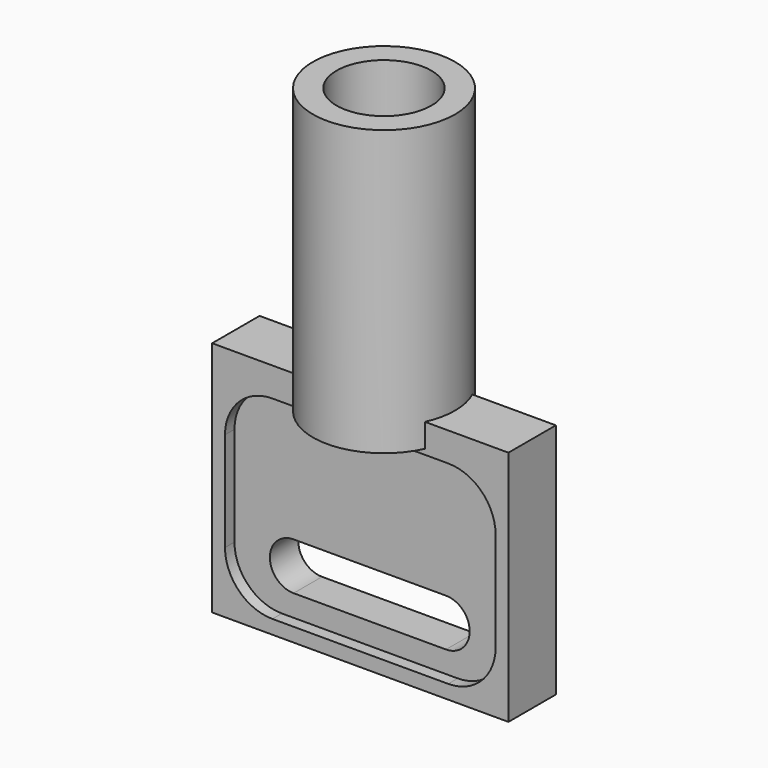
from build123d import *

# Parameters (mm, degrees)
SKETCH006_W     = 25
SKETCH006_H     = 5
PAD_DEPTH       = 20
SKETCH_R        = 6
PAD001_DEPTH    = 24
SKETCH001_R     = 4
POCKET001_DEPTH = 22
POCKET002_DEPTH = 5
POCKET003_DEPTH = 1


with BuildPart() as part:
    # Sketch006 → Pad (new body)
    with BuildSketch(Plane.XY):
        Rectangle(SKETCH006_W, SKETCH006_H)
    extrude(amount=PAD_DEPTH)

    # Sketch (on Face6 of Pad) → Pad001 (join)
    with BuildSketch(Plane.XY.offset(18)):
        Circle(SKETCH_R)
    extrude(amount=PAD001_DEPTH)

    # Sketch001 (on Face11 of Pad001) → Pocket001 (cut)
    with BuildSketch(Plane.XY.offset(42)):
        Circle(SKETCH001_R)
    extrude(amount=-POCKET001_DEPTH, mode=Mode.SUBTRACT)

    # Sketch009 (on Face9 of Pocket001) → Pocket002 (cut)
    with BuildSketch(Plane.XZ.offset(2.5)):
        with BuildLine():
            ThreePointArc((-6.430284, 7), (-8.430284, 5), (-6.430284, 3))
            Line((-6.430284, 3), (6.430284, 3))
            ThreePointArc((6.430284, 3), (8.430284, 5), (6.430284, 7))
            Line((-6.430284, 7), (6.430284, 7))
        make_face()
    extrude(amount=-POCKET002_DEPTH, mode=Mode.SUBTRACT)

    # Sketch010 (on Face13 of Pocket002) → Pocket003 (cut)
    with BuildSketch(Plane.XZ.offset(2.5)):
        with BuildLine():
            Line((-7.41661, 17.549025), (7.41661, 17.549025))
            ThreePointArc((11.41661, 13.549025), (10.245037, 16.377452), (7.41661, 17.549025))
            Line((11.41661, 13.549025), (11.41661, 5.173753))
            ThreePointArc((7.41661, 1.173753), (10.245037, 2.345326), (11.41661, 5.173753))
            Line((7.41661, 1.173753), (-7.41661, 1.173753))
            ThreePointArc((-11.41661, 5.173753), (-10.245037, 2.345326), (-7.41661, 1.173753))
            Line((-11.41661, 5.173753), (-11.41661, 13.549025))
            ThreePointArc((-7.41661, 17.549025), (-10.245037, 16.377452), (-11.41661, 13.549025))
        make_face()
    pocket003 = extrude(amount=-POCKET003_DEPTH, mode=Mode.SUBTRACT)

    # Mirrored: Pocket003 across XZ
    add(pocket003.mirror(Plane.XZ), mode=Mode.SUBTRACT)


solid = part.part
